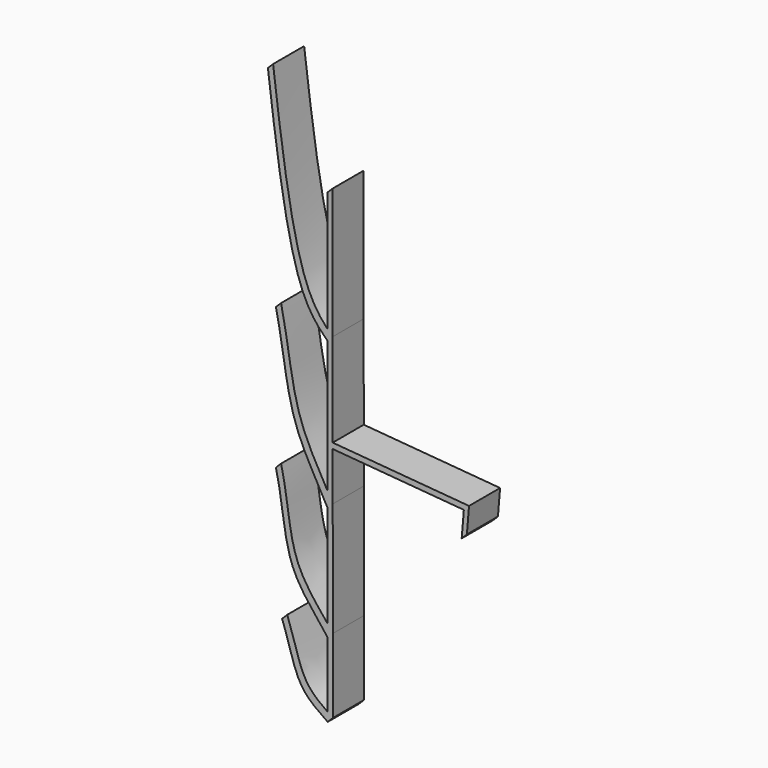
from build123d import *

# Parameters (mm, degrees)
F1_DEPTH = 15


with BuildPart() as f1:
    # F0 (on Front) → F1 (new body)
    with BuildSketch(Plane.XZ):
        with BuildLine():
            Line((0, -90), (-0.0020318986, -86.6158458051))
            add(Edge.make_bspline(
                [(-0.0020318986, -86.6158458051), (-2.9502442041, -84.5666168129), (-10.4928577407, -78.9197373079), (-12.6269030842, -66.4474399981), (-15.6103040576, -58.6201291084)],
                knots=[0.0811961622, 0.0811961622, 0.0811961622, 0.0811961622, 0.4386135929, 1, 1, 1, 1], degree=3))
            Line((-15.6103040576, -58.6201291084), (-17.6103040576, -60.6201291084))
            add(Edge.make_bspline(
                [(0, -90), (-3.574900176, -87.5113609623), (-12.3042687462, -82.0219341359), (-14.6269030842, -68.4474399981), (-17.6103040576, -60.6201291084)],
                knots=[0, 0, 0, 0, 0.4386135929, 1, 1, 1, 1], degree=3))
        make_face()
        with BuildLine():
            Line((-0.01723641, -61.292529125), (-0.0200385849, -56.6254693835))
            add(Edge.make_bspline(
                [(-0.0200385849, -56.6254693835), (-3.6887717396, -51.9645114707), (-15.2268192201, -39.1995831189), (-15.1308750191, -19.5421248357), (-18, -8)],
                knots=[0.074505527, 0.074505527, 0.074505527, 0.074505527, 0.4559151981, 1, 1, 1, 1], degree=3))
            Line((-18, -8), (-20, -10))
            add(Edge.make_bspline(
                [(-0.01723641, -61.292529125), (-3.7556680649, -55.9750846321), (-17.2345430623, -42.7820769442), (-17.1308750191, -21.5421248357), (-20, -10)],
                knots=[0, 0, 0, 0, 0.4559151981, 1, 1, 1, 1], degree=3))
        make_face()
        with BuildLine():
            add(Edge.make_bspline(
                [(-0.0778189226, 39.6084542304), (-3.6826029225, 42.9648597076), (-14.0064909417, 54.9055102531), (-19.6294464583, 96.7072776634), (-23.0870526284, 124.876447022)],
                knots=[0, 0, 0, 0, 0.3308872096, 1, 1, 1, 1], degree=3))
            Line((-0.0778189226, 39.6084542304), (-0.0801995262, 43.5733814298))
            add(Edge.make_bspline(
                [(-0.0801995262, 43.5733814298), (-2.9434791077, 46.558615577), (-12.3547735456, 59.4946874854), (-17.6294464583, 98.7072776634), (-21.0870526284, 126.876447022)],
                knots=[0.0619394201, 0.0619394201, 0.0619394201, 0.0619394201, 0.3308872096, 1, 1, 1, 1], degree=3))
            Line((-21.0870526284, 126.876447022), (-23.0870526284, 124.876447022))
        make_face()
        with BuildLine():
            add(Edge.make_bspline(
                [(1.98276359, -59.292529125), (1.3718301933, -58.4235539167), (0.6966210014, -57.5359526563), (-0.0200385849, -56.6254693835)],
                knots=[0, 0, 0, 0, 0.074505527, 0.074505527, 0.074505527, 0.074505527], degree=3))
            Line((-0.0200385849, -56.6254693835), (-0.01723641, -61.292529125))
            Line((-0.01723641, -61.292529125), (-0.0020318986, -86.6158458051))
            add(Edge.make_bspline(
                [(2, -88), (1.3382143662, -87.5393030625), (0.6677270556, -87.0813785838), (-0.0020318986, -86.6158458051)],
                knots=[0, 0, 0, 0, 0.0811961622, 0.0811961622, 0.0811961622, 0.0811961622], degree=3))
            Line((2, -88), (1.98276359, -59.292529125))
        make_face()
        with BuildLine():
            Line((-0.0436855326, -17.2411623467), (-0.0471535801, -11.4650829107))
            add(Edge.make_bspline(
                [(-0.0471535801, -11.4650829107), (-3.4924642294, -5.2007687498), (-13.6650261124, 11.4880544453), (-15.0273097595, 33.4830225824), (-18, 46.5982962847)],
                knots=[0.0786116183, 0.0786116183, 0.0786116183, 0.0786116183, 0.4614694467, 1, 1, 1, 1], degree=3))
            Line((-18, 46.5982962847), (-20, 44.5982962847))
            add(Edge.make_bspline(
                [(-0.0436855326, -17.2411623467), (-3.692513195, -10.0098797985), (-15.5487979027, 7.6114733276), (-17.0273097595, 31.4830225824), (-20, 44.5982962847)],
                knots=[0, 0, 0, 0, 0.4614694467, 1, 1, 1, 1], degree=3))
        make_face()
        with BuildLine():
            Line((1.9450952305, 3.4446264209), (-0.0562058927, 3.6116645843))
            Line((-0.0562058927, 3.6116645843), (-0.0471535801, -11.4650829107))
            add(Edge.make_bspline(
                [(1.9563144674, -15.2411623467), (1.3347343186, -14.0093086945), (0.6602668394, -12.7513250533), (-0.0471535801, -11.4650829107)],
                knots=[0, 0, 0, 0, 0.0786116183, 0.0786116183, 0.0786116183, 0.0786116183], degree=3))
            Line((1.9563144674, -15.2411623467), (1.9450952305, 3.4446264209))
        make_face()
        with BuildLine():
            add(Edge.make_bspline(
                [(1.9563144674, -15.2411623467), (1.3347343186, -14.0093086945), (0.6602668394, -12.7513250533), (-0.0471535801, -11.4650829107)],
                knots=[0, 0, 0, 0, 0.0786116183, 0.0786116183, 0.0786116183, 0.0786116183], degree=3))
            Line((-0.0471535801, -11.4650829107), (-0.0436855326, -17.2411623467))
            Line((-0.0436855326, -17.2411623467), (-0.0200385849, -56.6254693835))
            add(Edge.make_bspline(
                [(1.98276359, -59.292529125), (1.3718301933, -58.4235539167), (0.6966210014, -57.5359526563), (-0.0200385849, -56.6254693835)],
                knots=[0, 0, 0, 0, 0.074505527, 0.074505527, 0.074505527, 0.074505527], degree=3))
            Line((1.98276359, -59.292529125), (1.9563144674, -15.2411623467))
        make_face()
        with BuildLine():
            Line((-0.1080747673, 89.9999675551), (-0.0801995262, 43.5733814298))
            add(Edge.make_bspline(
                [(1.9221810774, 41.6084542304), (1.2473945519, 42.2367462974), (0.579221684, 42.8858737457), (-0.0801995262, 43.5733814298)],
                knots=[0, 0, 0, 0, 0.0619394201, 0.0619394201, 0.0619394201, 0.0619394201], degree=3))
            Line((1.9221810774, 41.6084542304), (1.8919252327, 91.9999675551))
            Line((1.8919252327, 91.9999675551), (-0.1080747673, 89.9999675551))
        make_face()
        Polygon((1.9437941073, 5.6116645843), (1.9450952305, 3.4446264209), (52.6029056818, -0.7835167228), (51.7711499852, -10.7488658116), (53.7711499852, -8.7488658116), (54.6029056818, 1.2164832772), align=None)
        with BuildLine():
            Line((-0.0801995262, 43.5733814298), (-0.0778189226, 39.6084542304))
            Line((-0.0778189226, 39.6084542304), (-0.0562058927, 3.6116645843))
            Line((-0.0562058927, 3.6116645843), (1.9450952305, 3.4446264209))
            Line((1.9450952305, 3.4446264209), (1.9437941073, 5.6116645843))
            Line((1.9437941073, 5.6116645843), (1.9221810774, 41.6084542304))
            add(Edge.make_bspline(
                [(1.9221810774, 41.6084542304), (1.2473945519, 42.2367462974), (0.579221684, 42.8858737457), (-0.0801995262, 43.5733814298)],
                knots=[0, 0, 0, 0, 0.0619394201, 0.0619394201, 0.0619394201, 0.0619394201], degree=3))
        make_face()
        with BuildLine():
            Line((0, -90), (2, -88))
            add(Edge.make_bspline(
                [(2, -88), (1.3382143662, -87.5393030625), (0.6677270556, -87.0813785838), (-0.0020318986, -86.6158458051)],
                knots=[0, 0, 0, 0, 0.0811961622, 0.0811961622, 0.0811961622, 0.0811961622], degree=3))
            Line((-0.0020318986, -86.6158458051), (0, -90))
        make_face()
    extrude(amount=F1_DEPTH)


solid = f1.part
